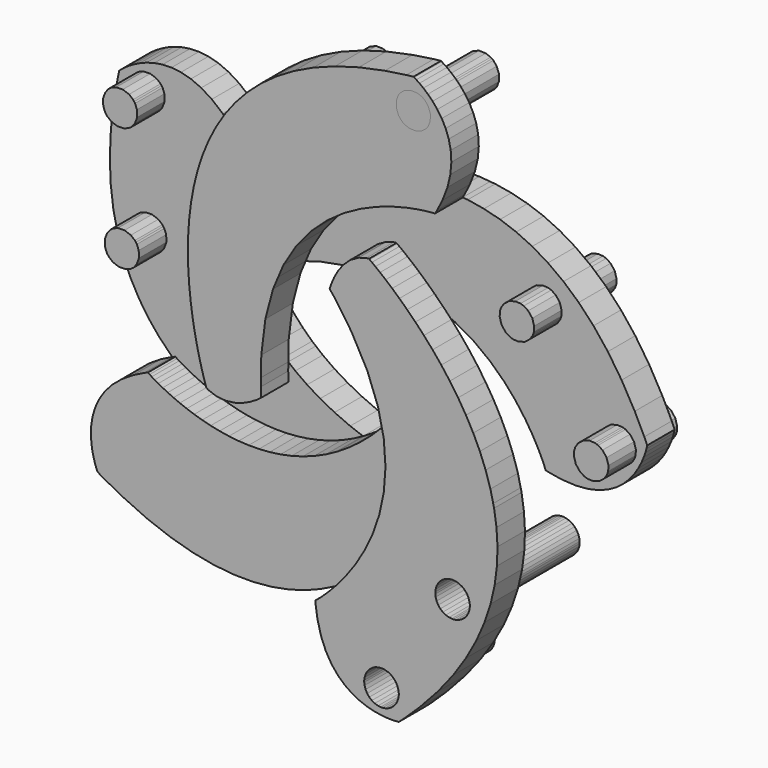
from build123d import *

# Parameters (mm, degrees)
F1_DEPTH  = 0.4
F2_DEPTH  = 0.4
F3_DEPTH  = 0.4
F4_DEPTH  = 0.4
F5_DEPTH  = 0.4
F10_DEPTH = 1
F11_DEPTH = 1
F12_DEPTH = 1
F13_DEPTH = 1
F14_DEPTH = 1
F15_DEPTH = 1.2


with BuildPart() as f1:
    # F0 (on Front) → F1 (new body)
    with BuildSketch(Plane.XZ):
        Polygon((0.62528, 0.75388), (0.490695107, 0.7664073446), (0.58778, 0.62475), (0.77278, 0.28376), (0.89558, -0.04029), (0.9210675068, -0.1550400031), (1.00638, -0.03536), (1.03748, 0.01179), (1.05678, 0.01233), (1.10888, 0.01103), (1.18498, 0.00343), (1.27608, -0.01485), (1.37348, -0.04821), (1.46828, -0.10111), (1.55168, -0.17782), (1.60318, -0.25492), (1.61478, -0.28292), (1.61158, -0.29328), (1.60168, -0.32333), (1.58498, -0.37135), (1.56138, -0.43564), (1.53048, -0.51457), (1.49238, -0.60649), (1.44658, -0.70961), (1.39318, -0.82236), (1.33178, -0.94301), (1.26228, -1.06992), (1.18448, -1.20137), (1.09828, -1.33571), (1.00338, -1.47122), (0.89968, -1.60626), (0.78688, -1.73912), (0.66488, -1.86819), (0.53358, -1.99179), (0.39258, -2.10817), (0.24178, -2.21564), (0.1997363854, -2.2410180074), (0.18558, -2.25318), (0.16668, -2.26832), (0.17028, -2.3146), (0.19128, -2.45267), (0.23238, -2.61136), (0.28738, -2.74612), (0.35378, -2.85903), (0.42908, -2.95186), (0.51088, -3.02662), (0.59668, -3.08515), (0.68408, -3.12943), (0.77038, -3.16128), (0.85328, -3.18276), (0.93018, -3.19562), (0.99868, -3.20192), (1.05628, -3.20343), (1.10058, -3.20218), (1.12888, -3.20001), (1.13888, -3.19887), (1.20148, -3.14315), (1.38228, -2.96803), (1.59278, -2.73935), (1.77198, -2.51311), (1.92148, -2.28975), (2.04308, -2.06949), (2.13828, -1.85274), (2.20898, -1.63979), (2.25648, -1.43108), (2.28268, -1.22682), (2.28928, -1.02743), (2.27768, -0.83326), (2.24978, -0.64468), (2.2393738732, -0.6002375722), (2.21078, -0.59346), (2.20208, -0.57072), (2.17538, -0.50753), (2.12938, -0.41105), (2.06258, -0.28861), (1.97378, -0.14744), (1.86168, 0.00517), (1.72488, 0.16192), (1.56218, 0.31561), (1.37218, 0.45889), (1.15348, 0.58454), (0.90498, 0.68529), align=None)
        Polygon((1.13888, -2.90396), (1.13888, -2.91415), (1.13888, -2.92429), (1.13478, -2.95474), (1.12308, -2.9925), (1.10448, -3.02672), (1.07988, -3.05651), (1.05008, -3.08114), (1.01588, -3.09969), (0.97808, -3.11142), (0.94768, -3.11554), (0.93748, -3.11554), (0.92728, -3.11554), (0.89688, -3.11142), (0.85908, -3.09969), (0.82488, -3.08114), (0.79508, -3.05651), (0.77048, -3.02672), (0.75188, -2.9925), (0.74018, -2.95474), (0.73608, -2.92429), (0.73608, -2.91415), (0.73608, -2.90396), (0.74018, -2.87351), (0.75188, -2.83575), (0.77048, -2.80153), (0.79508, -2.77174), (0.82488, -2.74711), (0.85908, -2.72855), (0.89688, -2.71683), (0.92728, -2.71276), (0.93748, -2.71276), (0.94768, -2.71276), (0.97808, -2.71683), (1.01588, -2.72855), (1.05008, -2.74711), (1.07988, -2.77174), (1.10448, -2.80153), (1.12308, -2.83575), (1.13478, -2.87351), align=None, mode=Mode.SUBTRACT)
        Polygon((1.96688, -1.7279), (1.96688, -1.7381), (1.96688, -1.74825), (1.96278, -1.77868), (1.95098, -1.81644), (1.93248, -1.85068), (1.90788, -1.88046), (1.87808, -1.9051), (1.84378, -1.92365), (1.80608, -1.93536), (1.77558, -1.93949), (1.76548, -1.93949), (1.75528, -1.93949), (1.72488, -1.93536), (1.68708, -1.92365), (1.65288, -1.9051), (1.62308, -1.88046), (1.59848, -1.85068), (1.57988, -1.81644), (1.56818, -1.77868), (1.56408, -1.74825), (1.56408, -1.7381), (1.56408, -1.7279), (1.56818, -1.69746), (1.57988, -1.65971), (1.59848, -1.62547), (1.62308, -1.59568), (1.65288, -1.57105), (1.68708, -1.5525), (1.72488, -1.54078), (1.75528, -1.53671), (1.76548, -1.53671), (1.77558, -1.53671), (1.80608, -1.54078), (1.84378, -1.5525), (1.87808, -1.57105), (1.90788, -1.59568), (1.93248, -1.62547), (1.95098, -1.65971), (1.96278, -1.69746), align=None, mode=Mode.SUBTRACT)
        Polygon((0.33878, 1.00024), (0.33338, 0.98168), (0.40168, 0.89629), (0.490695107, 0.7664073446), (0.62528, 0.75388), (0.90498, 0.68529), (1.15348, 0.58454), (1.37218, 0.45889), (1.56218, 0.31561), (1.72488, 0.16192), (1.86168, 0.00517), (1.97378, -0.14744), (2.06258, -0.28861), (2.12938, -0.41105), (2.17538, -0.50753), (2.20208, -0.57072), (2.21078, -0.59346), (2.2393738732, -0.6002375722), (2.20698, -0.46189), (2.15118, -0.28536), (2.08398, -0.11537), (2.00698, 0.04765), (1.92178, 0.20353), (1.83008, 0.35175), (1.73358, 0.49204), (1.63398, 0.6241), (1.53268, 0.74758), (1.43168, 0.86206), (1.33238, 0.96731), (1.23658, 1.06285), (1.14578, 1.14851), (1.06178, 1.22382), (0.98608, 1.28847), (0.92048, 1.34207), (0.86658, 1.38447), (0.82608, 1.41507), (0.80048, 1.43377), (0.79168, 1.43997), (0.76148, 1.43767), (0.67228, 1.41237), (0.57358, 1.35667), (0.49408, 1.28277), (0.43228, 1.20043), (0.38678, 1.11938), (0.35618, 1.04939), align=None)
        Polygon((1.00638, -0.03536), (0.9210675068, -0.1550400031), (0.96358, -0.34644), (0.98398, -0.63372), (0.96418, -0.90112), (0.91148, -1.14771), (0.83338, -1.37249), (0.73688, -1.57447), (0.62958, -1.75269), (0.51858, -1.90618), (0.41148, -2.03394), (0.31538, -2.13501), (0.23768, -2.20842), (0.1997363854, -2.2410180074), (0.24178, -2.21564), (0.39258, -2.10817), (0.53358, -1.99179), (0.66488, -1.86819), (0.78688, -1.73912), (0.89968, -1.60626), (1.00338, -1.47122), (1.09828, -1.33571), (1.18448, -1.20137), (1.26228, -1.06992), (1.33178, -0.94301), (1.39318, -0.82236), (1.44658, -0.70961), (1.49238, -0.60649), (1.53048, -0.51457), (1.56138, -0.43564), (1.58498, -0.37135), (1.60168, -0.32333), (1.61158, -0.29328), (1.61478, -0.28292), (1.60318, -0.25492), (1.55168, -0.17782), (1.46828, -0.10111), (1.37348, -0.04821), (1.27608, -0.01485), (1.18498, 0.00343), (1.10888, 0.01103), (1.05678, 0.01233), (1.03748, 0.01179), align=None)
    extrude(amount=F1_DEPTH)

    # F0 (on Front) → F15, piece 5 (join)
    with BuildSketch(Plane.XZ):
        Polygon((1.96688, -1.74825), (1.96688, -1.7381), (1.96688, -1.7279), (1.96278, -1.69746), (1.95098, -1.65971), (1.93248, -1.62547), (1.90788, -1.59568), (1.87808, -1.57105), (1.84378, -1.5525), (1.80608, -1.54078), (1.77558, -1.53671), (1.76548, -1.53671), (1.75528, -1.53671), (1.72488, -1.54078), (1.68708, -1.5525), (1.65288, -1.57105), (1.62308, -1.59568), (1.59848, -1.62547), (1.57988, -1.65971), (1.56818, -1.69746), (1.56408, -1.7279), (1.56408, -1.7381), (1.56408, -1.74825), (1.56818, -1.77868), (1.57988, -1.81644), (1.59848, -1.85068), (1.62308, -1.88046), (1.65288, -1.9051), (1.68708, -1.92365), (1.72488, -1.93536), (1.75528, -1.93949), (1.76548, -1.93949), (1.77558, -1.93949), (1.80608, -1.93536), (1.84378, -1.92365), (1.87808, -1.9051), (1.90788, -1.88046), (1.93248, -1.85068), (1.95098, -1.81644), (1.96278, -1.77868), align=None)
    extrude(amount=-F15_DEPTH)


with BuildPart() as f2:
    # F0 (on Front) → F2 (new body)
    with BuildSketch(Plane.XZ):
        Polygon((0.40168, 0.89629), (0.33338, 0.98168), (0.33878, 1.00024), (0.35618, 1.04939), (0.38678, 1.11938), (0.43228, 1.20043), (0.49408, 1.28277), (0.57358, 1.35667), (0.67228, 1.41237), (0.76148, 1.43767), (0.79168, 1.43997), (0.80048, 1.43377), (0.82608, 1.41507), (0.86658, 1.38447), (0.92048, 1.34207), (0.98608, 1.28847), (1.06178, 1.22382), (1.14578, 1.14851), (1.23658, 1.06285), (1.33238, 0.96731), (1.43168, 0.86206), (1.53268, 0.74758), (1.63398, 0.6241), (1.73358, 0.49204), (1.83008, 0.35175), (1.92178, 0.20353), (2.00698, 0.04765), (2.08398, -0.11537), (2.15118, -0.28536), (2.20698, -0.46189), (2.2393738732, -0.6002375722), (2.25588, -0.60415), (2.39378, -0.62644), (2.55738, -0.63594), (2.70258, -0.62493), (2.83028, -0.59628), (2.94178, -0.55299), (3.03798, -0.49803), (3.11998, -0.43422), (3.18888, -0.36467), (3.24568, -0.2923), (3.29148, -0.21993), (3.32728, -0.15064), (3.35428, -0.08733), (3.37338, -0.03297), (3.38568, 0.00951), (3.39228, 0.03718), (3.39438, 0.047), (3.36038, 0.12372), (3.24918, 0.34942), (3.09588, 0.61981), (2.93548, 0.85972), (2.76858, 1.0705), (2.59618, 1.25367), (2.41898, 1.41077), (2.23798, 1.54317), (2.05388, 1.65237), (1.86738, 1.73997), (1.67968, 1.80717), (1.49128, 1.85567), (1.30308, 1.88687), (1.2430049147, 1.8917852342), (1.24048, 1.88757), (1.21618, 1.88637), (1.14788, 1.88017), (1.04198, 1.86557), (0.90498, 1.83917), (0.74358, 1.79747), (0.56408, 1.73697), (0.37318, 1.65437), (0.17728, 1.54607), (-0.01697, 1.40857), (-0.20311, 1.23846), (-0.37461, 1.03235), (-0.52494, 0.7867), (-0.5862412711, 0.6424055467), (-0.41432, 0.69365), (-0.03308, 0.76532), (0.31308, 0.78294), (0.490695107, 0.7664073446), align=None)
        Polygon((3.10458, 0.14026), (3.12328, 0.13424), (3.14188, 0.12828), (3.19308, 0.09518), (3.24078, 0.03447), (3.26218, -0.03964), (3.25928, -0.10051), (3.25328, -0.11918), (3.24728, -0.13779), (3.21418, -0.18889), (3.15358, -0.23664), (3.07938, -0.25807), (3.01848, -0.25514), (2.99988, -0.24917), (2.98128, -0.24314), (2.93018, -0.21005), (2.88238, -0.14939), (2.86098, -0.07524), (2.86388, -0.01442), (2.86988, 0.00419), (2.87588, 0.02286), (2.90898, 0.07401), (2.96968, 0.12171), (3.04378, 0.1432), align=None, mode=Mode.SUBTRACT)
        Polygon((2.23878, 1.28867), (2.25738, 1.28267), (2.27598, 1.27667), (2.32708, 1.24356), (2.37488, 1.1829), (2.39628, 1.10874), (2.39338, 1.04793), (2.38738, 1.02926), (2.38138, 1.01065), (2.34828, 0.95949), (2.28758, 0.91175), (2.21348, 0.89032), (2.15258, 0.89325), (2.13398, 0.89922), (2.11528, 0.90524), (2.06418, 0.93833), (2.01648, 0.99899), (1.99498, 1.07315), (1.99798, 1.13403), (2.00398, 1.15264), (2.00998, 1.17129), (2.04308, 1.2224), (2.10378, 1.27017), (2.17788, 1.29157), align=None, mode=Mode.SUBTRACT)
        Polygon((-0.72975, 0.59963), (-0.5862412711, 0.6424055467), (-0.52494, 0.7867), (-0.37461, 1.03235), (-0.20311, 1.23846), (-0.01697, 1.40857), (0.17728, 1.54607), (0.37318, 1.65437), (0.56408, 1.73697), (0.74358, 1.79747), (0.90498, 1.83917), (1.04198, 1.86557), (1.14788, 1.88017), (1.21618, 1.88637), (1.24048, 1.88757), (1.2430049147, 1.8917852342), (1.11608, 1.90217), (0.93098, 1.90317), (0.74858, 1.89117), (0.56978, 1.86777), (0.39528, 1.83447), (0.22608, 1.79257), (0.06298, 1.74377), (-0.09325, 1.68927), (-0.24174, 1.63077), (-0.38171, 1.56967), (-0.51231, 1.50737), (-0.63264, 1.44537), (-0.74196, 1.38527), (-0.83935, 1.32827), (-0.92408, 1.27607), (-0.99526, 1.23006), (-1.05207, 1.19175), (-1.09368, 1.16256), (-1.11924, 1.14396), (-1.12792, 1.13739), (-1.13486, 1.10793), (-1.13817, 1.01532), (-1.11543, 0.90426), (-1.06943, 0.80596), (-1.00997, 0.72197), (-0.94676, 0.65383), (-0.88953, 0.60321), (-0.84803, 0.57164), (-0.83201, 0.56072), align=None)
        Polygon((0.33878, 1.00024), (0.33338, 0.98168), (0.40168, 0.89629), (0.490695107, 0.7664073446), (0.62528, 0.75388), (0.90498, 0.68529), (1.15348, 0.58454), (1.37218, 0.45889), (1.56218, 0.31561), (1.72488, 0.16192), (1.86168, 0.00517), (1.97378, -0.14744), (2.06258, -0.28861), (2.12938, -0.41105), (2.17538, -0.50753), (2.20208, -0.57072), (2.21078, -0.59346), (2.2393738732, -0.6002375722), (2.20698, -0.46189), (2.15118, -0.28536), (2.08398, -0.11537), (2.00698, 0.04765), (1.92178, 0.20353), (1.83008, 0.35175), (1.73358, 0.49204), (1.63398, 0.6241), (1.53268, 0.74758), (1.43168, 0.86206), (1.33238, 0.96731), (1.23658, 1.06285), (1.14578, 1.14851), (1.06178, 1.22382), (0.98608, 1.28847), (0.92048, 1.34207), (0.86658, 1.38447), (0.82608, 1.41507), (0.80048, 1.43377), (0.79168, 1.43997), (0.76148, 1.43767), (0.67228, 1.41237), (0.57358, 1.35667), (0.49408, 1.28277), (0.43228, 1.20043), (0.38678, 1.11938), (0.35618, 1.04939), align=None)
    extrude(amount=F2_DEPTH)


with BuildPart() as f3:
    # F0 (on Front) → F3 (new body)
    with BuildSketch(Plane.XZ):
        Polygon((-0.64756, 0.49807), (-0.5862412711, 0.6424055467), (-0.72975, 0.59963), (-0.83201, 0.56072), (-0.84803, 0.57164), (-0.88953, 0.60321), (-0.94676, 0.65383), (-1.00997, 0.72197), (-1.06943, 0.80596), (-1.11543, 0.90426), (-1.13817, 1.01532), (-1.13486, 1.10793), (-1.12792, 1.13739), (-1.11924, 1.14396), (-1.09368, 1.16256), (-1.05207, 1.19175), (-0.99526, 1.23006), (-0.92408, 1.27607), (-0.83935, 1.32827), (-0.74196, 1.38527), (-0.63264, 1.44537), (-0.51231, 1.50737), (-0.38171, 1.56967), (-0.24174, 1.63077), (-0.09325, 1.68927), (0.06298, 1.74377), (0.22608, 1.79257), (0.39528, 1.83447), (0.56978, 1.86777), (0.74858, 1.89117), (0.93098, 1.90317), (1.11608, 1.90217), (1.2430049147, 1.8917852342), (1.26438, 1.92747), (1.32758, 2.05207), (1.38628, 2.20497), (1.41998, 2.34667), (1.43148, 2.47707), (1.42408, 2.59647), (1.40098, 2.70477), (1.36518, 2.80237), (1.31988, 2.88907), (1.26808, 2.96517), (1.21308, 3.03077), (1.15798, 3.08597), (1.10588, 3.13087), (1.05988, 3.16567), (1.02308, 3.19027), (0.99878, 3.20507), (0.98998, 3.20987), (0.90668, 3.20087), (0.65778, 3.16347), (0.35368, 3.09967), (0.07638, 3.01967), (-0.17522, 2.92487), (-0.40217, 2.81627), (-0.60561, 2.69527), (-0.78682, 2.56297), (-0.94688, 2.42077), (-1.08685, 2.26977), (-1.20804, 2.11127), (-1.31146, 1.94657), (-1.39832, 1.77687), (-1.4261461461, 1.7092521535), (-1.42565, 1.70867), (-1.42739, 1.70277), (-1.43217, 1.68527), (-1.43922, 1.65707), (-1.44796, 1.61857), (-1.45767, 1.57047), (-1.46776, 1.51347), (-1.47747, 1.44817), (-1.48615, 1.37527), (-1.49321, 1.29527), (-1.49788, 1.20889), (-1.49956, 1.11678), (-1.49754, 1.0195), (-1.49114, 0.91776), (-1.47975, 0.81225), (-1.46265, 0.70347), (-1.43917, 0.59208), (-1.40868, 0.47881), (-1.37049, 0.36428), (-1.32388, 0.24899), (-1.26826, 0.13375), (-1.20294, 0.01911), (-1.12721, -0.09433), (-1.04046, -0.20582), (-0.94199, -0.31482), (-0.8311, -0.42067), (-0.7880439811, -0.4561238103), (-0.78357, -0.22204), (-0.73593, 0.16295), align=None)
        Polygon((-0.5441, 2.48637), (-0.53269, 2.50227), (-0.52136, 2.51817), (-0.47432, 2.55687), (-0.40194, 2.58387), (-0.32481, 2.58177), (-0.26772, 2.56047), (-0.25178, 2.54907), (-0.23588, 2.53777), (-0.19719, 2.49067), (-0.17018, 2.41837), (-0.17224, 2.34117), (-0.19356, 2.28407), (-0.2049, 2.26817), (-0.21629, 2.25227), (-0.26339, 2.21357), (-0.33571, 2.18657), (-0.41286, 2.18857), (-0.46993, 2.20997), (-0.48582, 2.22127), (-0.50178, 2.23267), (-0.54046, 2.27977), (-0.56747, 2.35207), (-0.56542, 2.42927), align=None, mode=Mode.SUBTRACT)
        Polygon((0.81318, 2.96227), (0.82458, 2.97817), (0.83588, 2.99407), (0.88298, 3.03277), (0.95528, 3.05977), (1.03248, 3.05777), (1.08948, 3.03637), (1.10548, 3.02507), (1.12138, 3.01367), (1.16008, 2.96657), (1.18708, 2.89427), (1.18498, 2.81717), (1.16368, 2.76007), (1.15238, 2.74407), (1.14098, 2.72817), (1.09398, 2.68957), (1.02158, 2.66247), (0.94438, 2.66457), (0.88738, 2.68587), (0.87148, 2.69727), (0.85548, 2.70867), (0.81678, 2.75567), (0.78978, 2.82807), (0.79188, 2.90517), align=None, mode=Mode.SUBTRACT)
        Polygon((-0.78986, -0.55114), (-0.7880439811, -0.4561238103), (-0.8311, -0.42067), (-0.94199, -0.31482), (-1.04046, -0.20582), (-1.12721, -0.09433), (-1.20294, 0.01911), (-1.26826, 0.13375), (-1.32388, 0.24899), (-1.37049, 0.36428), (-1.40868, 0.47881), (-1.43917, 0.59208), (-1.46265, 0.70347), (-1.47975, 0.81225), (-1.49114, 0.91776), (-1.49754, 1.0195), (-1.49956, 1.11678), (-1.49788, 1.20889), (-1.49321, 1.29527), (-1.48615, 1.37527), (-1.47747, 1.44817), (-1.46776, 1.51347), (-1.45767, 1.57047), (-1.44796, 1.61857), (-1.43922, 1.65707), (-1.43217, 1.68527), (-1.42739, 1.70277), (-1.42565, 1.70867), (-1.4261461461, 1.7092521535), (-1.46976, 1.60327), (-1.52694, 1.42717), (-1.571, 1.24977), (-1.60307, 1.07228), (-1.62433, 0.89601), (-1.63589, 0.72208), (-1.63893, 0.55183), (-1.63453, 0.38642), (-1.62396, 0.22718), (-1.60822, 0.07526), (-1.58858, -0.06807), (-1.56613, -0.20158), (-1.54197, -0.32399), (-1.51735, -0.43411), (-1.49336, -0.53069), (-1.47118, -0.61244), (-1.45192, -0.67826), (-1.43678, -0.72676), (-1.42679, -0.75676), (-1.42322, -0.76707), (-1.39728, -0.78264), (-1.30999, -0.81389), (-1.19731, -0.82599), (-1.08967, -0.81204), (-0.99158, -0.7809), (-0.90743, -0.74136), (-0.84178, -0.70224), (-0.79914, -0.67229), (-0.78389, -0.6604), align=None)
        Polygon((-0.72975, 0.59963), (-0.5862412711, 0.6424055467), (-0.52494, 0.7867), (-0.37461, 1.03235), (-0.20311, 1.23846), (-0.01697, 1.40857), (0.17728, 1.54607), (0.37318, 1.65437), (0.56408, 1.73697), (0.74358, 1.79747), (0.90498, 1.83917), (1.04198, 1.86557), (1.14788, 1.88017), (1.21618, 1.88637), (1.24048, 1.88757), (1.2430049147, 1.8917852342), (1.11608, 1.90217), (0.93098, 1.90317), (0.74858, 1.89117), (0.56978, 1.86777), (0.39528, 1.83447), (0.22608, 1.79257), (0.06298, 1.74377), (-0.09325, 1.68927), (-0.24174, 1.63077), (-0.38171, 1.56967), (-0.51231, 1.50737), (-0.63264, 1.44537), (-0.74196, 1.38527), (-0.83935, 1.32827), (-0.92408, 1.27607), (-0.99526, 1.23006), (-1.05207, 1.19175), (-1.09368, 1.16256), (-1.11924, 1.14396), (-1.12792, 1.13739), (-1.13486, 1.10793), (-1.13817, 1.01532), (-1.11543, 0.90426), (-1.06943, 0.80596), (-1.00997, 0.72197), (-0.94676, 0.65383), (-0.88953, 0.60321), (-0.84803, 0.57164), (-0.83201, 0.56072), align=None)
    extrude(amount=F3_DEPTH)


with BuildPart() as f4:
    # F0 (on Front) → F4 (new body)
    with BuildSketch(Plane.XZ):
        Polygon((-0.70718, -0.52271), (-0.7880439811, -0.4561238103), (-0.78986, -0.55114), (-0.78389, -0.6604), (-0.79914, -0.67229), (-0.84178, -0.70224), (-0.90743, -0.74136), (-0.99158, -0.7809), (-1.08967, -0.81204), (-1.19731, -0.82599), (-1.30999, -0.81389), (-1.39728, -0.78264), (-1.42322, -0.76707), (-1.42679, -0.75676), (-1.43678, -0.72676), (-1.45192, -0.67826), (-1.47118, -0.61244), (-1.49336, -0.53069), (-1.51735, -0.43411), (-1.54197, -0.32399), (-1.56613, -0.20158), (-1.58858, -0.06807), (-1.60822, 0.07526), (-1.62396, 0.22718), (-1.63453, 0.38642), (-1.63893, 0.55183), (-1.63589, 0.72208), (-1.62433, 0.89601), (-1.60307, 1.07228), (-1.571, 1.24977), (-1.52694, 1.42717), (-1.46976, 1.60327), (-1.4261461461, 1.7092521535), (-1.45582, 1.74407), (-1.55392, 1.84347), (-1.68032, 1.94777), (-1.80403, 2.02457), (-1.92403, 2.07697), (-2.03954, 2.10777), (-2.14967, 2.12027), (-2.25351, 2.11727), (-2.3502, 2.10177), (-2.43879, 2.07697), (-2.51849, 2.04557), (-2.58831, 2.01087), (-2.64745, 1.97567), (-2.69497, 1.94307), (-2.73001, 1.91607), (-2.75172, 1.89767), (-2.7591, 1.89087), (-2.77706, 1.80897), (-2.82057, 1.56107), (-2.8566, 1.25237), (-2.86881, 0.9641), (-2.8586, 0.69544), (-2.82768, 0.44576), (-2.77749, 0.21438), (-2.70957, 0.00061), (-2.62547, -0.19626), (-2.52674, -0.37699), (-2.41492, -0.54219), (-2.29154, -0.69253), (-2.15814, -0.8288), (-2.1389745839, -0.8453934573), (-2.10557, -0.83158), (-2.10046, -0.83505), (-2.08533, -0.84493), (-2.06064, -0.86039), (-2.02674, -0.88057), (-1.98404, -0.90471), (-1.93293, -0.93189), (-1.87385, -0.96131), (-1.80717, -0.99217), (-1.73328, -1.02358), (-1.65254, -1.05472), (-1.56547, -1.08478), (-1.47238, -1.11293), (-1.37363, -1.13833), (-1.26974, -1.16008), (-1.16101, -1.17744), (-1.04783, -1.1896), (-0.93071, -1.19557), (-0.80993, -1.19469), (-0.68592, -1.18601), (-0.55913, -1.16876), (-0.42989, -1.14207), (-0.29865, -1.10512), (-0.16574, -1.05705), (-0.03167, -0.99711), (0.082529194, -0.9355803713), (-0.06753, -0.88019), (-0.25036, -0.79974), (-0.41747, -0.71287), (-0.56954, -0.62032), align=None)
        Polygon((-2.55983, 0.20646), (-2.57133, 0.22229), (-2.58283, 0.23819), (-2.60458, 0.29506), (-2.60725, 0.3722), (-2.58076, 0.44474), (-2.54247, 0.49204), (-2.52657, 0.50354), (-2.51072, 0.51504), (-2.45388, 0.53681), (-2.37672, 0.53946), (-2.30418, 0.51299), (-2.25682, 0.47474), (-2.24532, 0.45883), (-2.23382, 0.443), (-2.21211, 0.38614), (-2.20946, 0.30894), (-2.23593, 0.2364), (-2.27418, 0.18904), (-2.29003, 0.17754), (-2.30592, 0.16603), (-2.36283, 0.14433), (-2.43999, 0.14168), (-2.51251, 0.16815), align=None, mode=Mode.SUBTRACT)
        Polygon((-2.58039, 1.64457), (-2.59183, 1.66047), (-2.60333, 1.67637), (-2.6251, 1.73317), (-2.62775, 1.81037), (-2.60128, 1.88287), (-2.56297, 1.93017), (-2.54714, 1.94167), (-2.53129, 1.95317), (-2.47443, 1.97497), (-2.39728, 1.97757), (-2.32475, 1.95117), (-2.27739, 1.91287), (-2.26589, 1.89697), (-2.25438, 1.88117), (-2.23268, 1.82427), (-2.23001, 1.74707), (-2.2565, 1.67457), (-2.29475, 1.62717), (-2.31058, 1.61567), (-2.32649, 1.60417), (-2.38335, 1.58247), (-2.46049, 1.57977), (-2.53303, 1.60627), align=None, mode=Mode.SUBTRACT)
        Polygon((0.13178, -0.95376), (0.082529194, -0.9355803713), (-0.03167, -0.99711), (-0.16574, -1.05705), (-0.29865, -1.10512), (-0.42989, -1.14207), (-0.55913, -1.16876), (-0.68592, -1.18601), (-0.80993, -1.19469), (-0.93071, -1.19557), (-1.04783, -1.1896), (-1.16101, -1.17744), (-1.26974, -1.16008), (-1.37363, -1.13833), (-1.47238, -1.11293), (-1.56547, -1.08478), (-1.65254, -1.05472), (-1.73328, -1.02358), (-1.80717, -0.99217), (-1.87385, -0.96131), (-1.93293, -0.93189), (-1.98404, -0.90471), (-2.02674, -0.88057), (-2.06064, -0.86039), (-2.08533, -0.84493), (-2.10046, -0.83505), (-2.10557, -0.83158), (-2.1389745839, -0.8453934573), (-2.01626, -0.95164), (-1.86739, -1.06178), (-1.71315, -1.15981), (-1.55506, -1.24657), (-1.39457, -1.32268), (-1.23333, -1.38882), (-1.07285, -1.44572), (-0.9146, -1.49407), (-0.76018, -1.53454), (-0.61115, -1.56785), (-0.46901, -1.59471), (-0.33528, -1.61582), (-0.21151, -1.63176), (-0.09932, -1.64337), (-0.0001, -1.65129), (0.08448, -1.65618), (0.15298, -1.65883), (0.20378, -1.65981), (0.23538, -1.65992), (0.24628, -1.65981), (0.26938, -1.64012), (0.32668, -1.56725), (0.37388, -1.46422), (0.39478, -1.35772), (0.39648, -1.2548), (0.38568, -1.16247), (0.36938, -1.08782), (0.35458, -1.03785), (0.34808, -1.01968), (0.29358, -1.00471), align=None)
        Polygon((-0.78986, -0.55114), (-0.7880439811, -0.4561238103), (-0.8311, -0.42067), (-0.94199, -0.31482), (-1.04046, -0.20582), (-1.12721, -0.09433), (-1.20294, 0.01911), (-1.26826, 0.13375), (-1.32388, 0.24899), (-1.37049, 0.36428), (-1.40868, 0.47881), (-1.43917, 0.59208), (-1.46265, 0.70347), (-1.47975, 0.81225), (-1.49114, 0.91776), (-1.49754, 1.0195), (-1.49956, 1.11678), (-1.49788, 1.20889), (-1.49321, 1.29527), (-1.48615, 1.37527), (-1.47747, 1.44817), (-1.46776, 1.51347), (-1.45767, 1.57047), (-1.44796, 1.61857), (-1.43922, 1.65707), (-1.43217, 1.68527), (-1.42739, 1.70277), (-1.42565, 1.70867), (-1.4261461461, 1.7092521535), (-1.46976, 1.60327), (-1.52694, 1.42717), (-1.571, 1.24977), (-1.60307, 1.07228), (-1.62433, 0.89601), (-1.63589, 0.72208), (-1.63893, 0.55183), (-1.63453, 0.38642), (-1.62396, 0.22718), (-1.60822, 0.07526), (-1.58858, -0.06807), (-1.56613, -0.20158), (-1.54197, -0.32399), (-1.51735, -0.43411), (-1.49336, -0.53069), (-1.47118, -0.61244), (-1.45192, -0.67826), (-1.43678, -0.72676), (-1.42679, -0.75676), (-1.42322, -0.76707), (-1.39728, -0.78264), (-1.30999, -0.81389), (-1.19731, -0.82599), (-1.08967, -0.81204), (-0.99158, -0.7809), (-0.90743, -0.74136), (-0.84178, -0.70224), (-0.79914, -0.67229), (-0.78389, -0.6604), align=None)
    extrude(amount=F4_DEPTH)


with BuildPart() as f5:
    # F0 (on Front) → F5 (new body)
    with BuildSketch(Plane.XZ):
        Polygon((0.96358, -0.34644), (0.9210675068, -0.1550400031), (0.90788, -0.17354), (0.77638, -0.34032), (0.64328, -0.48929), (0.50908, -0.6214), (0.37408, -0.73739), (0.23858, -0.83808), (0.10328, -0.9244), (0.082529194, -0.9355803713), (0.13178, -0.95376), (0.29358, -1.00471), (0.34808, -1.01968), (0.35458, -1.03785), (0.36938, -1.08782), (0.38568, -1.16247), (0.39648, -1.2548), (0.39478, -1.35772), (0.37388, -1.46422), (0.32668, -1.56725), (0.26938, -1.64012), (0.24628, -1.65981), (0.23538, -1.65992), (0.20378, -1.65981), (0.15298, -1.65883), (0.08448, -1.65618), (-0.0001, -1.65129), (-0.09932, -1.64337), (-0.21151, -1.63176), (-0.33528, -1.61582), (-0.46901, -1.59471), (-0.61115, -1.56785), (-0.76018, -1.53454), (-0.9146, -1.49407), (-1.07285, -1.44572), (-1.23333, -1.38882), (-1.39457, -1.32268), (-1.55506, -1.24657), (-1.71315, -1.15981), (-1.86739, -1.06178), (-2.01626, -0.95164), (-2.1389745839, -0.8453934573), (-2.14847, -0.84932), (-2.27342, -0.91187), (-2.41167, -0.99982), (-2.52299, -1.09368), (-2.60985, -1.19165), (-2.67496, -1.29192), (-2.72085, -1.39283), (-2.7501, -1.4925), (-2.76529, -1.58922), (-2.76897, -1.68119), (-2.76382, -1.76664), (-2.75238, -1.84379), (-2.73718, -1.9109), (-2.7209, -1.96618), (-2.70604, -2.00785), (-2.69525, -2.03417), (-2.69107, -2.04333), (-2.61881, -2.08571), (-2.39647, -2.20371), (-2.11403, -2.33342), (-1.84363, -2.43411), (-1.585, -2.50753), (-1.33799, -2.55526), (-1.10242, -2.57908), (-0.87808, -2.5806), (-0.66486, -2.5615), (-0.4625, -2.52347), (-0.27082, -2.46819), (-0.08967, -2.39733), (0.08118, -2.31258), (0.1997363854, -2.2410180074), (0.23768, -2.20842), (0.31538, -2.13501), (0.41148, -2.03394), (0.51858, -1.90618), (0.62958, -1.75269), (0.73688, -1.57447), (0.83338, -1.37249), (0.91148, -1.14771), (0.96418, -0.90112), (0.98398, -0.63372), align=None)
        Polygon((-2.40157, -1.94947), (-2.42018, -1.95554), (-2.43885, -1.96157), (-2.49967, -1.96467), (-2.57388, -1.94335), (-2.63464, -1.89576), (-2.66785, -1.84471), (-2.67388, -1.8261), (-2.67994, -1.80743), (-2.68299, -1.74661), (-2.66167, -1.6724), (-2.61408, -1.61164), (-2.56303, -1.57843), (-2.54436, -1.57242), (-2.52575, -1.56633), (-2.46494, -1.56329), (-2.39072, -1.58461), (-2.32996, -1.63219), (-2.29675, -1.68325), (-2.29074, -1.70192), (-2.28471, -1.72053), (-2.28161, -1.78133), (-2.30293, -1.8555), (-2.35051, -1.91632), align=None, mode=Mode.SUBTRACT)
        Polygon((-1.02754, -2.37454), (-1.04615, -2.38062), (-1.06482, -2.38665), (-1.12564, -2.38974), (-1.19981, -2.36842), (-1.26063, -2.32078), (-1.29376, -2.26974), (-1.29979, -2.25112), (-1.30586, -2.23246), (-1.30896, -2.17164), (-1.28764, -2.09747), (-1.24006, -2.03665), (-1.189, -2.00351), (-1.17035, -1.99749), (-1.15174, -1.9914), (-1.09092, -1.98832), (-1.01669, -2.00964), (-0.95588, -2.05728), (-0.92272, -2.10832), (-0.91665, -2.12699), (-0.91063, -2.1456), (-0.9076, -2.20642), (-0.92892, -2.28058), (-0.9765, -2.3414), align=None, mode=Mode.SUBTRACT)
        Polygon((0.13178, -0.95376), (0.082529194, -0.9355803713), (-0.03167, -0.99711), (-0.16574, -1.05705), (-0.29865, -1.10512), (-0.42989, -1.14207), (-0.55913, -1.16876), (-0.68592, -1.18601), (-0.80993, -1.19469), (-0.93071, -1.19557), (-1.04783, -1.1896), (-1.16101, -1.17744), (-1.26974, -1.16008), (-1.37363, -1.13833), (-1.47238, -1.11293), (-1.56547, -1.08478), (-1.65254, -1.05472), (-1.73328, -1.02358), (-1.80717, -0.99217), (-1.87385, -0.96131), (-1.93293, -0.93189), (-1.98404, -0.90471), (-2.02674, -0.88057), (-2.06064, -0.86039), (-2.08533, -0.84493), (-2.10046, -0.83505), (-2.10557, -0.83158), (-2.1389745839, -0.8453934573), (-2.01626, -0.95164), (-1.86739, -1.06178), (-1.71315, -1.15981), (-1.55506, -1.24657), (-1.39457, -1.32268), (-1.23333, -1.38882), (-1.07285, -1.44572), (-0.9146, -1.49407), (-0.76018, -1.53454), (-0.61115, -1.56785), (-0.46901, -1.59471), (-0.33528, -1.61582), (-0.21151, -1.63176), (-0.09932, -1.64337), (-0.0001, -1.65129), (0.08448, -1.65618), (0.15298, -1.65883), (0.20378, -1.65981), (0.23538, -1.65992), (0.24628, -1.65981), (0.26938, -1.64012), (0.32668, -1.56725), (0.37388, -1.46422), (0.39478, -1.35772), (0.39648, -1.2548), (0.38568, -1.16247), (0.36938, -1.08782), (0.35458, -1.03785), (0.34808, -1.01968), (0.29358, -1.00471), align=None)
        Polygon((1.00638, -0.03536), (0.9210675068, -0.1550400031), (0.96358, -0.34644), (0.98398, -0.63372), (0.96418, -0.90112), (0.91148, -1.14771), (0.83338, -1.37249), (0.73688, -1.57447), (0.62958, -1.75269), (0.51858, -1.90618), (0.41148, -2.03394), (0.31538, -2.13501), (0.23768, -2.20842), (0.1997363854, -2.2410180074), (0.24178, -2.21564), (0.39258, -2.10817), (0.53358, -1.99179), (0.66488, -1.86819), (0.78688, -1.73912), (0.89968, -1.60626), (1.00338, -1.47122), (1.09828, -1.33571), (1.18448, -1.20137), (1.26228, -1.06992), (1.33178, -0.94301), (1.39318, -0.82236), (1.44658, -0.70961), (1.49238, -0.60649), (1.53048, -0.51457), (1.56138, -0.43564), (1.58498, -0.37135), (1.60168, -0.32333), (1.61158, -0.29328), (1.61478, -0.28292), (1.60318, -0.25492), (1.55168, -0.17782), (1.46828, -0.10111), (1.37348, -0.04821), (1.27608, -0.01485), (1.18498, 0.00343), (1.10888, 0.01103), (1.05678, 0.01233), (1.03748, 0.01179), align=None)
    extrude(amount=F5_DEPTH)


with BuildPart() as f5_1:
    # F6: moved
    add(f5.part.moved(Location((0, 0.4, 0))))

    # F0 (on Front) → F12 (join)
    with BuildSketch(Plane.XZ):
        Polygon((-2.43885, -1.96157), (-2.42018, -1.95554), (-2.40157, -1.94947), (-2.35051, -1.91632), (-2.30293, -1.8555), (-2.28161, -1.78133), (-2.28471, -1.72053), (-2.29074, -1.70192), (-2.29675, -1.68325), (-2.32996, -1.63219), (-2.39072, -1.58461), (-2.46494, -1.56329), (-2.52575, -1.56633), (-2.54436, -1.57242), (-2.56303, -1.57843), (-2.61408, -1.61164), (-2.66167, -1.6724), (-2.68299, -1.74661), (-2.67994, -1.80743), (-2.67388, -1.8261), (-2.66785, -1.84471), (-2.63464, -1.89576), (-2.57388, -1.94335), (-2.49967, -1.96467), align=None)
    extrude(amount=-F12_DEPTH)

    # F0 (on Front) → F15, piece 4 (join)
    with BuildSketch(Plane.XZ):
        Polygon((-1.06482, -2.38665), (-1.04615, -2.38062), (-1.02754, -2.37454), (-0.9765, -2.3414), (-0.92892, -2.28058), (-0.9076, -2.20642), (-0.91063, -2.1456), (-0.91665, -2.12699), (-0.92272, -2.10832), (-0.95588, -2.05728), (-1.01669, -2.00964), (-1.09092, -1.98832), (-1.15174, -1.9914), (-1.17035, -1.99749), (-1.189, -2.00351), (-1.24006, -2.03665), (-1.28764, -2.09747), (-1.30896, -2.17164), (-1.30586, -2.23246), (-1.29979, -2.25112), (-1.29376, -2.26974), (-1.26063, -2.32078), (-1.19981, -2.36842), (-1.12564, -2.38974), align=None)
    extrude(amount=-F15_DEPTH)


with BuildPart() as f4_1:
    # F7: moved
    add(f4.part.moved(Location((0, 0.8, 0))))

    # F0 (on Front) → F15, piece 3 (join)
    with BuildSketch(Plane.XZ):
        Polygon((-2.58283, 0.23819), (-2.57133, 0.22229), (-2.55983, 0.20646), (-2.51251, 0.16815), (-2.43999, 0.14168), (-2.36283, 0.14433), (-2.30592, 0.16603), (-2.29003, 0.17754), (-2.27418, 0.18904), (-2.23593, 0.2364), (-2.20946, 0.30894), (-2.21211, 0.38614), (-2.23382, 0.443), (-2.24532, 0.45883), (-2.25682, 0.47474), (-2.30418, 0.51299), (-2.37672, 0.53946), (-2.45388, 0.53681), (-2.51072, 0.51504), (-2.52657, 0.50354), (-2.54247, 0.49204), (-2.58076, 0.44474), (-2.60725, 0.3722), (-2.60458, 0.29506), align=None)
    extrude(amount=-F15_DEPTH)


with BuildPart() as f3_1:
    # F8: moved
    add(f3.part.moved(Location((0, 0.4, 0))))

    # F0 (on Front) → F15, piece 2 (join)
    with BuildSketch(Plane.XZ):
        Polygon((-0.52136, 2.51817), (-0.53269, 2.50227), (-0.5441, 2.48637), (-0.56542, 2.42927), (-0.56747, 2.35207), (-0.54046, 2.27977), (-0.50178, 2.23267), (-0.48582, 2.22127), (-0.46993, 2.20997), (-0.41286, 2.18857), (-0.33571, 2.18657), (-0.26339, 2.21357), (-0.21629, 2.25227), (-0.2049, 2.26817), (-0.19356, 2.28407), (-0.17224, 2.34117), (-0.17018, 2.41837), (-0.19719, 2.49067), (-0.23588, 2.53777), (-0.25178, 2.54907), (-0.26772, 2.56047), (-0.32481, 2.58177), (-0.40194, 2.58387), (-0.47432, 2.55687), align=None)
    extrude(amount=-F15_DEPTH)


with BuildPart() as f2_1:
    # F9: moved
    add(f2.part.moved(Location((0, 0.8, 0))))

    # F0 (on Front) → F15 (join)
    with BuildSketch(Plane.XZ):
        Polygon((2.27598, 1.27667), (2.25738, 1.28267), (2.23878, 1.28867), (2.17788, 1.29157), (2.10378, 1.27017), (2.04308, 1.2224), (2.00998, 1.17129), (2.00398, 1.15264), (1.99798, 1.13403), (1.99498, 1.07315), (2.01648, 0.99899), (2.06418, 0.93833), (2.11528, 0.90524), (2.13398, 0.89922), (2.15258, 0.89325), (2.21348, 0.89032), (2.28758, 0.91175), (2.34828, 0.95949), (2.38138, 1.01065), (2.38738, 1.02926), (2.39338, 1.04793), (2.39628, 1.10874), (2.37488, 1.1829), (2.32708, 1.24356), align=None)
    extrude(amount=-F15_DEPTH)


with BuildPart() as f10:
    # F0 (on Front) → F10 (new body)
    with BuildSketch(Plane.XZ):
        Polygon((1.13888, -2.92429), (1.13888, -2.91415), (1.13888, -2.90396), (1.13478, -2.87351), (1.12308, -2.83575), (1.10448, -2.80153), (1.07988, -2.77174), (1.05008, -2.74711), (1.01588, -2.72855), (0.97808, -2.71683), (0.94768, -2.71276), (0.93748, -2.71276), (0.92728, -2.71276), (0.89688, -2.71683), (0.85908, -2.72855), (0.82488, -2.74711), (0.79508, -2.77174), (0.77048, -2.80153), (0.75188, -2.83575), (0.74018, -2.87351), (0.73608, -2.90396), (0.73608, -2.91415), (0.73608, -2.92429), (0.74018, -2.95474), (0.75188, -2.9925), (0.77048, -3.02672), (0.79508, -3.05651), (0.82488, -3.08114), (0.85908, -3.09969), (0.89688, -3.11142), (0.92728, -3.11554), (0.93748, -3.11554), (0.94768, -3.11554), (0.97808, -3.11142), (1.01588, -3.09969), (1.05008, -3.08114), (1.07988, -3.05651), (1.10448, -3.02672), (1.12308, -2.9925), (1.13478, -2.95474), align=None)
    extrude(amount=-F10_DEPTH)


with BuildPart() as f11:
    # F0 (on Front) → F11 (new body)
    with BuildSketch(Plane.XZ):
        Polygon((0.83588, 2.99407), (0.82458, 2.97817), (0.81318, 2.96227), (0.79188, 2.90517), (0.78978, 2.82807), (0.81678, 2.75567), (0.85548, 2.70867), (0.87148, 2.69727), (0.88738, 2.68587), (0.94438, 2.66457), (1.02158, 2.66247), (1.09398, 2.68957), (1.14098, 2.72817), (1.15238, 2.74407), (1.16368, 2.76007), (1.18498, 2.81717), (1.18708, 2.89427), (1.16008, 2.96657), (1.12138, 3.01367), (1.10548, 3.02507), (1.08948, 3.03637), (1.03248, 3.05777), (0.95528, 3.05977), (0.88298, 3.03277), align=None)
    extrude(amount=-F11_DEPTH)


with BuildPart() as f13:
    # F0 (on Front) → F13 (new body)
    with BuildSketch(Plane.XZ):
        Polygon((-2.60333, 1.67637), (-2.59183, 1.66047), (-2.58039, 1.64457), (-2.53303, 1.60627), (-2.46049, 1.57977), (-2.38335, 1.58247), (-2.32649, 1.60417), (-2.31058, 1.61567), (-2.29475, 1.62717), (-2.2565, 1.67457), (-2.23001, 1.74707), (-2.23268, 1.82427), (-2.25438, 1.88117), (-2.26589, 1.89697), (-2.27739, 1.91287), (-2.32475, 1.95117), (-2.39728, 1.97757), (-2.47443, 1.97497), (-2.53129, 1.95317), (-2.54714, 1.94167), (-2.56297, 1.93017), (-2.60128, 1.88287), (-2.62775, 1.81037), (-2.6251, 1.73317), align=None)
    extrude(amount=-F13_DEPTH)


with BuildPart() as f14:
    # F0 (on Front) → F14 (new body)
    with BuildSketch(Plane.XZ):
        Polygon((3.14188, 0.12828), (3.12328, 0.13424), (3.10458, 0.14026), (3.04378, 0.1432), (2.96968, 0.12171), (2.90898, 0.07401), (2.87588, 0.02286), (2.86988, 0.00419), (2.86388, -0.01442), (2.86098, -0.07524), (2.88238, -0.14939), (2.93018, -0.21005), (2.98128, -0.24314), (2.99988, -0.24917), (3.01848, -0.25514), (3.07938, -0.25807), (3.15358, -0.23664), (3.21418, -0.18889), (3.24728, -0.13779), (3.25328, -0.11918), (3.25928, -0.10051), (3.26218, -0.03964), (3.24078, 0.03447), (3.19308, 0.09518), align=None)
    extrude(amount=-F14_DEPTH)


solid = Compound([f1.part, f5_1.part, f4_1.part, f3_1.part, f2_1.part, f10.part, f11.part, f13.part, f14.part])
